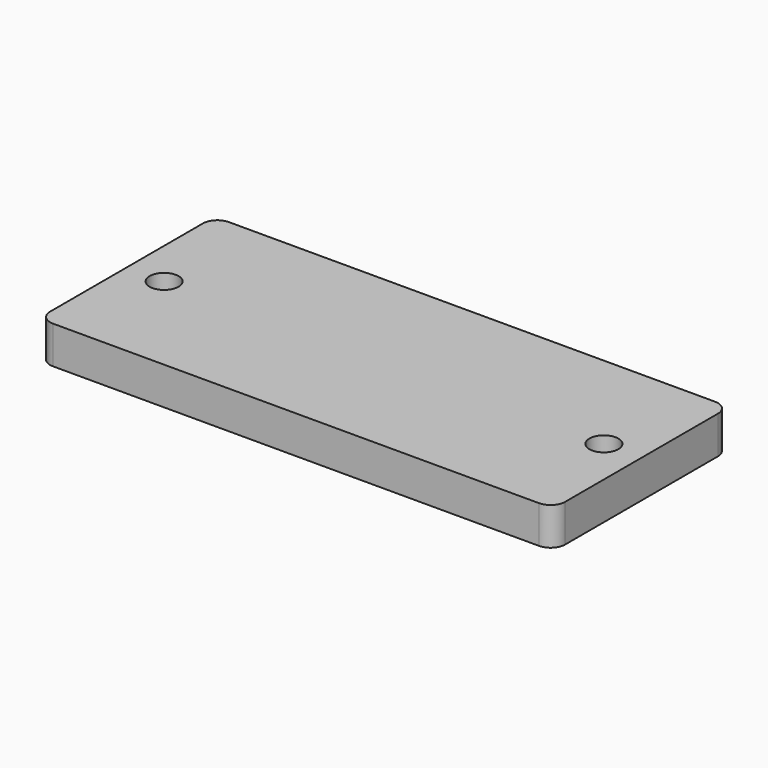
from build123d import *

# Parameters (mm, degrees)
F1_DEPTH = 3.25
F2_R     = 2.5
F3_DEPTH = 25


with BuildPart() as f1:
    # F0 (on Top) → F1 (new body, symmetric)
    with BuildSketch(Plane.XY):
        with BuildLine():
            Line((-42, -19), (42, -19))
            ThreePointArc((42, -19), (43.767767, -18.267767), (44.5, -16.5))
            Line((44.5, -16.5), (44.5, 16.5))
            ThreePointArc((44.5, 16.5), (43.767767, 18.267767), (42, 19))
            Line((42, 19), (-42, 19))
            ThreePointArc((-42, 19), (-43.767767, 18.267767), (-44.5, 16.5))
            Line((-44.5, 16.5), (-44.5, -16.5))
            ThreePointArc((-44.5, -16.5), (-43.767767, -18.267767), (-42, -19))
        make_face()
    extrude(amount=F1_DEPTH, both=True)

    # F2 (on face) → F3 (cut)
    with BuildSketch(Plane.XY.offset(3.25)):
        with Locations((-38, 0)):
            Circle(F2_R)
        with BuildLine():
            ThreePointArc((40.5, 0), (38, 2.5), (35.5, 0))
            ThreePointArc((35.5, 0), (38, -2.5), (40.5, 0))
        make_face()
    extrude(amount=-F3_DEPTH, mode=Mode.SUBTRACT)


solid = f1.part
